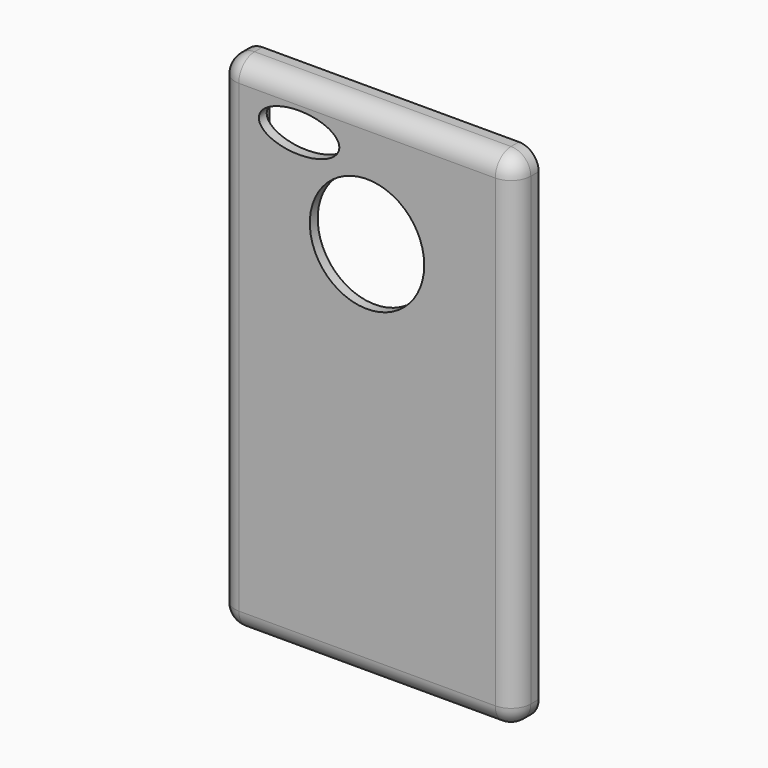
from build123d import *

# Parameters (mm, degrees)
F0_W      = 76.2
F0_H      = 129.794
F1_DEPTH  = 7.62
F2_W      = 62.453852
F2_H      = 114.834502
F3_DEPTH  = 5.08
F4_R      = 5.08
F5_R      = 14.729499
F6_DEPTH  = 7.621
F7_W      = 25.326907
F7_H      = 4.029281
F7_W_2    = 7.00929
F7_H_2    = 3.872237
F8_DEPTH  = 64.898
F10_DEPTH = 7.621


with BuildPart() as f1:
    # F0 (on Front) → F1 (new body)
    with BuildSketch(Plane.XZ):
        Rectangle(F0_W, F0_H)
    extrude(amount=F1_DEPTH)

    # F2 (on Front) → F3 (cut)
    with BuildSketch(Plane.XZ):
        Rectangle(F2_W, F2_H)
    extrude(amount=F3_DEPTH, mode=Mode.SUBTRACT)

    # F4
    f4_edges = [f1.edges().sort_by_distance(p)[0] for p in [
        (38.1, -7.62, 0),
        (0, -7.62, 64.897),
        (-38.1, -7.62, 0),
        (0, -7.62, -64.897),
        (-38.1, -3.81, -64.897),
        (38.1, -3.81, -64.897),
        (-38.1, -3.81, 64.897),
        (38.1, -3.81, 64.897),
    ]]
    fillet(f4_edges, radius=F4_R)

    # F5 (on Front) → F6 (cut, through all)
    with BuildSketch(Plane.XZ):
        with Locations((0, 34.104981)):
            Circle(F5_R)
    extrude(amount=F6_DEPTH, mode=Mode.SUBTRACT)

    # F7 (on Top) → F8 (cut, through all)
    with BuildSketch(Plane.XY):
        with Locations((-19.564182, -2.721094)):
            Rectangle(F7_W, F7_H)
        with Locations((19.564182, -2.721094)):
            Rectangle(F7_W, F7_H)
        with Locations((0, -2.737844)):
            Rectangle(F7_W_2, F7_H_2)
    extrude(amount=-F8_DEPTH, mode=Mode.SUBTRACT)

    # F9 (on Front) → F10 (cut, through all)
    with BuildSketch(Plane.XZ):
        with BuildLine():
            add(Edge.make_bspline(
                [(-27.859751, 53.675774), (-27.859751, 45.018395), (-12.31697, 49.347085), (3.225811, 53.675774), (-12.31697, 58.004464), (-27.859751, 62.333154), (-27.859751, 53.675774)],
                knots=[0, 0, 0, 2.094395, 2.094395, 4.18879, 4.18879, 6.283185, 6.283185, 6.283185], degree=2, weights=[1, 0.5, 1, 0.5, 1, 0.5, 1]))
        make_face()
    extrude(amount=F10_DEPTH, mode=Mode.SUBTRACT)


solid = f1.part
